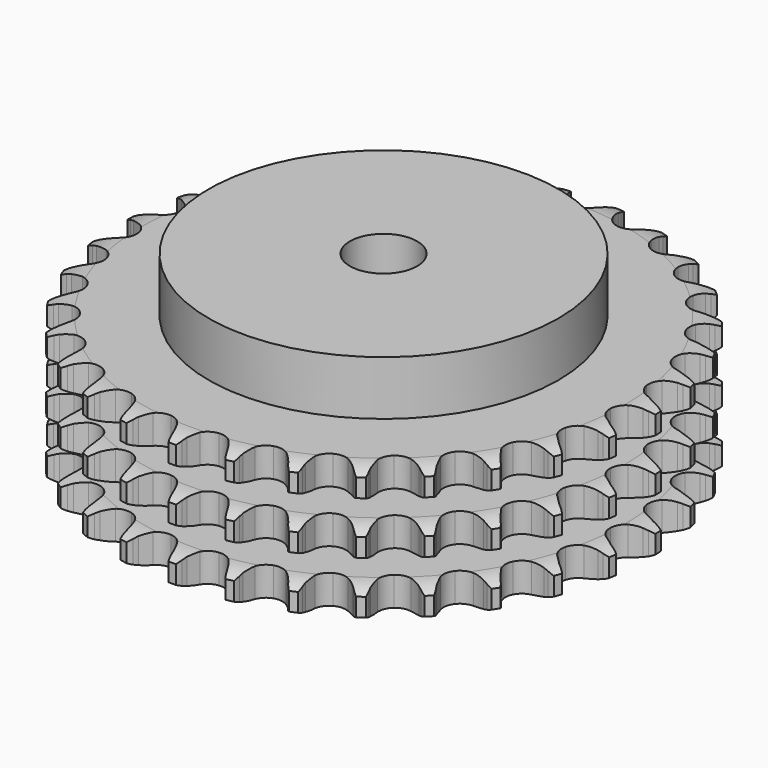
from build123d import *

# Parameters (mm, degrees)
PAD_DEPTH         = 49.8
SKETCH001_R       = 65
PAD001_DEPTH      = 70
SKETCH002_R       = 12.5
POCKET_DEPTH      = 0.001
POCKET_DEPTH_BACK = 70.001


with BuildPart() as part:
    # Sprocket → Pad (new body)
    with BuildSketch(Plane.XY):
        with BuildLine():
            ThreePointArc((-10.135506, 99.67057), (-8.654127, 97.94511), (-7.608377, 95.925678))
            Line((-7.608377, 95.925678), (-7.019676, 94.371168))
            ThreePointArc((-7.019676, 94.371168), (-6.086662, 92.351046), (-4.878425, 90.482473))
            ThreePointArc((-4.878425, 90.482473), (-2.726343, 88.689528), (0, 88.04675))
            ThreePointArc((0, 88.04675), (2.726343, 88.689528), (4.878425, 90.482473))
            ThreePointArc((4.878425, 90.482473), (6.086662, 92.351046), (7.019676, 94.371168))
            Line((7.019676, 94.371168), (7.608377, 95.925678))
            ThreePointArc((7.608377, 95.925678), (8.654127, 97.94511), (10.135506, 99.67057))
            ThreePointArc((10.135506, 99.67057), (11.239229, 97.68223), (11.857064, 95.493628))
            Line((11.857064, 95.493628), (12.120794, 93.852435))
            ThreePointArc((12.120794, 93.852435), (12.628061, 91.685851), (13.435425, 89.612311))
            ThreePointArc((13.435425, 89.612311), (15.182536, 87.422857), (17.72368, 86.244427))
            ThreePointArc((17.72368, 86.244427), (20.523605, 86.32524), (22.992551, 87.648272))
            Line((22.992551, 87.648272), (25.872759, 91.026334))
            ThreePointArc((25.872759, 91.026334), (26.299018, 91.740163), (26.76233, 92.430518))
            ThreePointArc((26.76233, 92.430518), (28.193182, 94.198104), (29.99157, 95.590046))
            ThreePointArc((29.99157, 95.590046), (30.67245, 93.420229), (30.837076, 91.152059))
            Line((30.837076, 91.152059), (30.765037, 89.491372))
            ThreePointArc((30.765037, 89.491372), (30.82579, 87.267026), (31.199226, 85.073411))
            ThreePointArc((31.199226, 85.073411), (32.469841, 82.577084), (34.721751, 80.911248))
            ThreePointArc((34.721751, 80.911248), (37.480629, 80.426785), (40.16536, 81.22574))
            Line((40.16536, 81.22574), (43.666608, 83.954872))
            ThreePointArc((43.666608, 83.954872), (44.227834, 84.568283), (44.82063, 85.151243))
            ThreePointArc((44.82063, 85.151243), (46.578005, 86.594618), (48.619776, 87.596053))
            ThreePointArc((48.619776, 87.596053), (48.849937, 85.333593), (48.554613, 83.078713))
            Line((48.554613, 83.078713), (48.149755, 81.466522))
            ThreePointArc((48.149755, 81.466522), (47.761507, 79.275479), (47.685728, 77.051595))
            ThreePointArc((47.685728, 77.051595), (48.427826, 74.350595), (50.298309, 72.265553))
            ThreePointArc((50.298309, 72.265553), (52.903191, 71.235649), (55.693794, 71.477817))
            Line((55.693794, 71.477817), (59.672742, 73.446287))
            ThreePointArc((59.672742, 73.446287), (60.345958, 73.934168), (61.043968, 74.385866))
            ThreePointArc((61.043968, 74.385866), (63.055919, 75.445937), (65.257482, 76.015868))
            ThreePointArc((65.257482, 76.015868), (65.027502, 73.753389), (64.284319, 71.604115))
            Line((64.284319, 71.604115), (63.563217, 70.106423))
            ThreePointArc((63.563217, 70.106423), (62.741863, 68.038385), (62.21997, 65.875278))
            ThreePointArc((62.21997, 65.875278), (62.40317, 63.080184), (63.815649, 60.661298))
            ThreePointArc((63.815649, 60.661298), (66.15989, 59.128117), (68.942117, 58.803583))
            Line((68.942117, 58.803583), (73.235866, 59.930802))
            ThreePointArc((73.235866, 59.930802), (73.993511, 60.273179), (74.768159, 60.575122))
            ThreePointArc((74.768159, 60.575122), (76.952316, 61.208491), (79.223539, 61.323584))
            ThreePointArc((79.223539, 61.323584), (78.542833, 59.153713), (77.382218, 57.198036))
            Line((77.382218, 57.198036), (76.374394, 55.876159))
            ThreePointArc((76.374394, 55.876159), (75.15356, 54.015791), (74.20692, 52.002019))
            ThreePointArc((74.20692, 52.002019), (73.823722, 49.227264), (74.720368, 46.573562))
            ThreePointArc((74.720368, 46.573562), (76.707996, 44.599873), (79.367942, 43.721924))
            Line((79.367942, 43.721924), (83.800705, 43.961744))
            ThreePointArc((83.800705, 43.961744), (84.611762, 44.144599), (85.431333, 44.284426))
            ThreePointArc((85.431333, 44.284426), (87.698277, 44.465163), (89.946175, 44.120705))
            ThreePointArc((89.946175, 44.120705), (88.842611, 42.132277), (87.31208, 40.450263))
            Line((87.31208, 40.450263), (86.058794, 39.358318))
            ThreePointArc((86.058794, 39.358318), (84.488461, 37.781784), (83.155829, 35.999792))
            ThreePointArc((83.155829, 35.999792), (82.221921, 33.358973), (82.566027, 30.579099))
            ThreePointArc((82.566027, 30.579099), (84.115667, 28.245705), (86.544434, 26.850285))
            Line((86.544434, 26.850285), (90.934734, 26.192886))
            ThreePointArc((90.934734, 26.192886), (91.765996, 26.208734), (92.596938, 26.18072))
            ThreePointArc((92.596938, 26.18072), (94.853859, 25.901425), (96.986405, 25.11152))
            ThreePointArc((96.986405, 25.11152), (95.505163, 23.385941), (93.667374, 22.046451))
            Line((93.667374, 22.046451), (92.219936, 21.229143))
            ThreePointArc((92.219936, 21.229143), (90.364394, 20.000987), (88.700329, 18.523728))
            ThreePointArc((88.700329, 18.523728), (87.253945, 16.124962), (87.031423, 13.332724))
            ThreePointArc((87.031423, 13.332724), (88.079633, 10.735155), (90.177787, 8.879391))
            Line((90.177787, 8.879391), (94.345884, 7.351689))
            ThreePointArc((94.345884, 7.351689), (95.163321, 7.199881), (95.971613, 7.005173))
            ThreePointArc((95.971613, 7.005173), (98.126114, 6.27728), (100.055999, 5.074266))
            ThreePointArc((100.055999, 5.074266), (98.257722, 3.682181), (96.187916, 2.740055))
            Line((96.187916, 2.740055), (94.605584, 2.230845))
            ThreePointArc((94.605584, 2.230845), (92.540799, 1.401347), (90.613427, 0.289301))
            ThreePointArc((90.613427, 0.289301), (88.713783, -1.769207), (87.933742, -4.459495))
            ThreePointArc((87.933742, -4.459495), (88.437609, -7.214894), (90.119251, -9.455026))
            Line((90.119251, -9.455026), (93.894502, -11.790487))
            ThreePointArc((93.894502, -11.790487), (94.664647, -12.103737), (95.4172, -12.457167))
            ThreePointArc((95.4172, -12.457167), (97.381073, -13.603858), (99.029289, -15.170729))
            ThreePointArc((99.029289, -15.170729), (96.987598, -16.172327), (94.770512, -16.678519))
            Line((94.770512, -16.678519), (93.118068, -16.858785))
            ThreePointArc((93.118068, -16.858785), (90.928572, -17.255665), (88.816801, -17.956969))
            ThreePointArc((88.816801, -17.956969), (86.541668, -19.590945), (85.236044, -22.069141))
            ThreePointArc((85.236044, -22.069141), (85.174938, -24.869565), (86.371222, -27.402353))
            Line((86.371222, -27.402353), (89.599069, -30.44996))
            ThreePointArc((89.599069, -30.44996), (90.290392, -30.911826), (90.956395, -31.409509))
            ThreePointArc((90.956395, -31.409509), (92.649241, -32.928052), (93.948308, -34.794633))
            ThreePointArc((93.948308, -34.794633), (91.746791, -35.364739), (89.473193, -35.414272))
            Line((89.473193, -35.414272), (87.818287, -35.258214))
            ThreePointArc((87.818287, -35.258214), (85.593719, -35.206227), (83.384005, -35.46808))
            ThreePointArc((83.384005, -35.46808), (80.826526, -36.610627), (79.048771, -38.775274))
            ThreePointArc((79.048771, -38.775274), (78.425196, -41.506072), (79.087145, -44.227824))
            Line((79.087145, -44.227824), (81.635439, -47.862807))
            ThreePointArc((81.635439, -47.862807), (82.219637, -48.454381), (82.771824, -49.075942))
            ThreePointArc((82.771824, -49.075942), (84.124337, -50.904168), (85.021073, -52.99404))
            ThreePointArc((85.021073, -52.99404), (82.749859, -53.109314), (80.512831, -52.700162))
            Line((80.512831, -52.700162), (78.923215, -52.214167))
            ThreePointArc((78.923215, -52.214167), (76.754649, -51.715443), (74.537457, -51.527123))
            ThreePointArc((74.537457, -51.527123), (71.802338, -52.131465), (69.625233, -53.893942))
            ThreePointArc((69.625233, -53.893942), (68.464716, -56.443316), (68.565231, -59.242603))
            Line((68.565231, -59.242603), (70.329644, -63.316146))
            ThreePointArc((70.329644, -63.316146), (70.782801, -64.013209), (71.198566, -64.733201))
            ThreePointArc((71.198566, -64.733201), (72.155373, -66.796261), (72.613065, -69.023865))
            ThreePointArc((72.613065, -69.023865), (70.365138, -68.679587), (68.256264, -67.8285))
            Line((68.256264, -67.8285), (66.797018, -67.032467))
            ThreePointArc((66.797018, -67.032467), (64.773235, -66.107422), (62.639338, -65.476639))
            ThreePointArc((62.639338, -65.476639), (59.838553, -65.518035), (57.35123, -66.806186))
            ThreePointArc((57.35123, -66.806186), (55.701283, -69.069764), (55.236248, -71.831983))
            Line((55.236248, -71.831983), (56.144546, -76.177314))
            ThreePointArc((56.144546, -76.177314), (56.448109, -76.951328), (56.710429, -77.740274))
            ThreePointArc((56.710429, -77.740274), (57.23236, -79.953708), (57.232269, -82.227845))
            ThreePointArc((57.232269, -82.227845), (55.099661, -81.43811), (53.205278, -80.179932))
            Line((53.205278, -80.179932), (51.936143, -79.106449))
            ThreePointArc((51.936143, -79.106449), (50.139997, -77.792956), (48.176756, -76.745535))
            ThreePointArc((48.176756, -76.745535), (45.424971, -76.222289), (42.72926, -76.983378))
            ThreePointArc((42.72926, -76.983378), (40.657434, -78.868488), (39.645887, -81.480553))
            Line((39.645887, -81.480553), (39.660883, -85.919774))
            ThreePointArc((39.660883, -85.919774), (39.802425, -86.73905), (39.900561, -87.564652))
            ThreePointArc((39.900561, -87.564652), (39.966247, -89.83784), (39.508378, -92.065407))
            ThreePointArc((39.508378, -92.065407), (37.578396, -90.862547), (35.976061, -89.248787))
            Line((35.976061, -89.248787), (34.948996, -87.941804))
            ThreePointArc((34.948996, -87.941804), (33.454021, -86.293636), (31.741812, -84.872459))
            ThreePointArc((31.741812, -84.872459), (29.151685, -83.805994), (26.35795, -84.00886))
            ThreePointArc((26.35795, -84.00886), (23.949064, -85.438327), (22.432419, -87.7933))
            Line((22.432419, -87.7933), (21.553499, -92.144668))
            ThreePointArc((21.553499, -92.144668), (21.527224, -92.975666), (21.45716, -93.804122))
            ThreePointArc((21.45716, -93.804122), (21.063911, -96.044001), (20.167009, -98.133801))
            ThreePointArc((20.167009, -98.133801), (18.518668, -96.567061), (17.27398, -94.663787))
            Line((17.27398, -94.663787), (16.531033, -93.176811))
            ThreePointArc((16.531033, -93.176811), (15.398434, -91.261445), (14.007355, -89.524694))
            ThreePointArc((14.007355, -89.524694), (11.684925, -87.958671), (8.907542, -87.59501))
            ThreePointArc((8.907542, -87.59501), (6.260216, -88.51031), (4.300565, -90.511779))
            Line((4.300565, -90.511779), (2.563713, -94.597149))
            ThreePointArc((2.563713, -94.597149), (2.370697, -95.405847), (2.135299, -96.203241))
            ThreePointArc((2.135299, -96.203241), (1.299217, -98.318108), (0, -100.184585))
            ThreePointArc((0, -100.184585), (-1.299217, -98.318108), (-2.135299, -96.203241))
            Line((-2.135299, -96.203241), (-2.563713, -94.597149))
            ThreePointArc((-2.563713, -94.597149), (-3.287567, -92.493), (-4.300565, -90.511779))
            ThreePointArc((-4.300565, -90.511779), (-6.260216, -88.51031), (-8.907542, -87.59501))
            ThreePointArc((-8.907542, -87.59501), (-11.684925, -87.958671), (-14.007355, -89.524694))
            Line((-14.007355, -89.524694), (-16.531033, -93.176811))
            ThreePointArc((-16.531033, -93.176811), (-16.882887, -93.930101), (-17.27398, -94.663787))
            ThreePointArc((-17.27398, -94.663787), (-18.518668, -96.567061), (-20.167009, -98.133801))
            ThreePointArc((-20.167009, -98.133801), (-21.063911, -96.044001), (-21.45716, -93.804122))
            Line((-21.45716, -93.804122), (-21.553499, -92.144668))
            ThreePointArc((-21.553499, -92.144668), (-21.838974, -89.937881), (-22.432419, -87.7933))
            ThreePointArc((-22.432419, -87.7933), (-23.949064, -85.438327), (-26.35795, -84.00886))
            ThreePointArc((-26.35795, -84.00886), (-29.151685, -83.805994), (-31.741812, -84.872459))
            Line((-31.741812, -84.872459), (-34.948996, -87.941804))
            ThreePointArc((-34.948996, -87.941804), (-35.445284, -88.608847), (-35.976061, -89.248787))
            ThreePointArc((-35.976061, -89.248787), (-37.578396, -90.862547), (-39.508378, -92.065407))
            ThreePointArc((-39.508378, -92.065407), (-39.966247, -89.83784), (-39.900561, -87.564652))
            Line((-39.900561, -87.564652), (-39.660883, -85.919774))
            ThreePointArc((-39.660883, -85.919774), (-39.496291, -83.700694), (-39.645887, -81.480553))
            ThreePointArc((-39.645887, -81.480553), (-40.657434, -78.868488), (-42.72926, -76.983378))
            ThreePointArc((-42.72926, -76.983378), (-45.424971, -76.222289), (-48.176756, -76.745535))
            Line((-48.176756, -76.745535), (-51.936143, -79.106449))
            ThreePointArc((-51.936143, -79.106449), (-52.556547, -79.659935), (-53.205278, -80.179932))
            ThreePointArc((-53.205278, -80.179932), (-55.099661, -81.43811), (-57.232269, -82.227845))
            ThreePointArc((-57.232269, -82.227845), (-57.23236, -79.953708), (-56.710429, -77.740274))
            Line((-56.710429, -77.740274), (-56.144546, -76.177314))
            ThreePointArc((-56.144546, -76.177314), (-55.536626, -74.036791), (-55.236248, -71.831983))
            ThreePointArc((-55.236248, -71.831983), (-55.701283, -69.069764), (-57.35123, -66.806186))
            ThreePointArc((-57.35123, -66.806186), (-59.838553, -65.518035), (-62.639338, -65.476639))
            Line((-62.639338, -65.476639), (-66.797018, -67.032467))
            ThreePointArc((-66.797018, -67.032467), (-67.516138, -67.449736), (-68.256264, -67.8285))
            ThreePointArc((-68.256264, -67.8285), (-70.365138, -68.679587), (-72.613065, -69.023865))
            ThreePointArc((-72.613065, -69.023865), (-72.155373, -66.796261), (-71.198566, -64.733201))
            Line((-71.198566, -64.733201), (-70.329644, -63.316146))
            ThreePointArc((-70.329644, -63.316146), (-69.303284, -61.341813), (-68.565231, -59.242603))
            ThreePointArc((-68.565231, -59.242603), (-68.464716, -56.443316), (-69.625233, -53.893942))
            ThreePointArc((-69.625233, -53.893942), (-71.802338, -52.131465), (-74.537457, -51.527123))
            Line((-74.537457, -51.527123), (-78.923215, -52.214167))
            ThreePointArc((-78.923215, -52.214167), (-79.711611, -52.478138), (-80.512831, -52.700162))
            ThreePointArc((-80.512831, -52.700162), (-82.749859, -53.109314), (-85.021073, -52.99404))
            ThreePointArc((-85.021073, -52.99404), (-84.124337, -50.904168), (-82.771824, -49.075942))
            Line((-82.771824, -49.075942), (-81.635439, -47.862807))
            ThreePointArc((-81.635439, -47.862807), (-80.232658, -46.135494), (-79.087145, -44.227824))
            ThreePointArc((-79.087145, -44.227824), (-78.425196, -41.506072), (-79.048771, -38.775274))
            ThreePointArc((-79.048771, -38.775274), (-80.826526, -36.610627), (-83.384005, -35.46808))
            Line((-83.384005, -35.46808), (-87.818287, -35.258214))
            ThreePointArc((-87.818287, -35.258214), (-88.643681, -35.358078), (-89.473193, -35.414272))
            ThreePointArc((-89.473193, -35.414272), (-91.746791, -35.364739), (-93.948308, -34.794633))
            ThreePointArc((-93.948308, -34.794633), (-92.649241, -32.928052), (-90.956395, -31.409509))
            Line((-90.956395, -31.409509), (-89.599069, -30.44996))
            ThreePointArc((-89.599069, -30.44996), (-87.877297, -29.040382), (-86.371222, -27.402353))
            ThreePointArc((-86.371222, -27.402353), (-85.174938, -24.869565), (-85.236044, -22.069141))
            ThreePointArc((-85.236044, -22.069141), (-86.541668, -19.590945), (-88.816801, -17.956969))
            Line((-88.816801, -17.956969), (-93.118068, -16.858785))
            ThreePointArc((-93.118068, -16.858785), (-93.946668, -16.790454), (-94.770512, -16.678519))
            ThreePointArc((-94.770512, -16.678519), (-96.987598, -16.172327), (-99.029289, -15.170729))
            ThreePointArc((-99.029289, -15.170729), (-97.381073, -13.603858), (-95.4172, -12.457167))
            Line((-95.4172, -12.457167), (-93.894502, -11.790487))
            ThreePointArc((-93.894502, -11.790487), (-91.92423, -10.756354), (-90.119251, -9.455026))
            ThreePointArc((-90.119251, -9.455026), (-88.437609, -7.214894), (-87.933742, -4.459495))
            ThreePointArc((-87.933742, -4.459495), (-88.713783, -1.769207), (-90.613427, 0.289301))
            Line((-90.613427, 0.289301), (-94.605584, 2.230845))
            ThreePointArc((-94.605584, 2.230845), (-95.403468, 2.464573), (-96.187916, 2.740055))
            ThreePointArc((-96.187916, 2.740055), (-98.257722, 3.682181), (-100.055999, 5.074266))
            ThreePointArc((-100.055999, 5.074266), (-98.126114, 6.27728), (-95.971613, 7.005173))
            Line((-95.971613, 7.005173), (-94.345884, 7.351689))
            ThreePointArc((-94.345884, 7.351689), (-92.207774, 7.968041), (-90.177787, 8.879391))
            ThreePointArc((-90.177787, 8.879391), (-88.079633, 10.735155), (-87.031423, 13.332724))
            ThreePointArc((-87.031423, 13.332724), (-87.253945, 16.124962), (-88.700329, 18.523728))
            Line((-88.700329, 18.523728), (-92.219936, 21.229143))
            ThreePointArc((-92.219936, 21.229143), (-92.954439, 21.6187), (-93.667374, 22.046451))
            ThreePointArc((-93.667374, 22.046451), (-95.505163, 23.385941), (-96.986405, 25.11152))
            ThreePointArc((-96.986405, 25.11152), (-94.853859, 25.901425), (-92.596938, 26.18072))
            Line((-92.596938, 26.18072), (-90.934734, 26.192886))
            ThreePointArc((-90.934734, 26.192886), (-88.71632, 26.366223), (-86.544434, 26.850285))
            ThreePointArc((-86.544434, 26.850285), (-84.115667, 28.245705), (-82.566027, 30.579099))
            ThreePointArc((-82.566027, 30.579099), (-82.221921, 33.358973), (-83.155829, 35.999792))
            Line((-83.155829, 35.999792), (-86.058794, 39.358318))
            ThreePointArc((-86.058794, 39.358318), (-86.699844, 39.887755), (-87.31208, 40.450263))
            ThreePointArc((-87.31208, 40.450263), (-88.842611, 42.132277), (-89.946175, 44.120705))
            ThreePointArc((-89.946175, 44.120705), (-87.698277, 44.465163), (-85.431333, 44.284426))
            Line((-85.431333, 44.284426), (-83.800705, 43.961744))
            ThreePointArc((-83.800705, 43.961744), (-81.59281, 43.684969), (-79.367942, 43.721924))
            ThreePointArc((-79.367942, 43.721924), (-76.707996, 44.599873), (-74.720368, 46.573562))
            ThreePointArc((-74.720368, 46.573562), (-73.823722, 49.227264), (-74.20692, 52.002019))
            Line((-74.20692, 52.002019), (-76.374394, 55.876159))
            ThreePointArc((-76.374394, 55.876159), (-76.895747, 56.5238), (-77.382218, 57.198036))
            ThreePointArc((-77.382218, 57.198036), (-78.542833, 59.153713), (-79.223539, 61.323584))
            ThreePointArc((-79.223539, 61.323584), (-76.952316, 61.208491), (-74.768159, 60.575122))
            Line((-74.768159, 60.575122), (-73.235866, 59.930802))
            ThreePointArc((-73.235866, 59.930802), (-71.128881, 59.215247), (-68.942117, 58.803583))
            ThreePointArc((-68.942117, 58.803583), (-66.15989, 59.128117), (-63.815649, 60.661298))
            ThreePointArc((-63.815649, 60.661298), (-62.40317, 63.080184), (-62.21997, 65.875278))
            Line((-62.21997, 65.875278), (-63.563217, 70.106423))
            ThreePointArc((-63.563217, 70.106423), (-63.943529, 70.845755), (-64.284319, 71.604115))
            ThreePointArc((-64.284319, 71.604115), (-65.027502, 73.753389), (-65.257482, 76.015868))
            ThreePointArc((-65.257482, 76.015868), (-63.055919, 75.445937), (-61.043968, 74.385866))
            Line((-61.043968, 74.385866), (-59.672742, 73.446287))
            ThreePointArc((-59.672742, 73.446287), (-57.752927, 72.321246), (-55.693794, 71.477817))
            ThreePointArc((-55.693794, 71.477817), (-52.903191, 71.235649), (-50.298309, 72.265553))
            ThreePointArc((-50.298309, 72.265553), (-48.427826, 74.350595), (-47.685728, 77.051595))
            Line((-47.685728, 77.051595), (-48.149755, 81.466522))
            ThreePointArc((-48.149755, 81.466522), (-48.373455, 82.267276), (-48.554613, 83.078713))
            ThreePointArc((-48.554613, 83.078713), (-48.849937, 85.333593), (-48.619776, 87.596053))
            ThreePointArc((-48.619776, 87.596053), (-46.578005, 86.594618), (-44.82063, 85.151243))
            Line((-44.82063, 85.151243), (-43.666608, 83.954872))
            ThreePointArc((-43.666608, 83.954872), (-42.012562, 82.466404), (-40.16536, 81.22574))
            ThreePointArc((-40.16536, 81.22574), (-37.480629, 80.426785), (-34.721751, 80.911248))
            ThreePointArc((-34.721751, 80.911248), (-32.469841, 82.577084), (-31.199226, 85.073411))
            Line((-31.199226, 85.073411), (-30.765037, 89.491372))
            ThreePointArc((-30.765037, 89.491372), (-30.822967, 90.320765), (-30.837076, 91.152059))
            ThreePointArc((-30.837076, 91.152059), (-30.67245, 93.420229), (-29.99157, 95.590046))
            ThreePointArc((-29.99157, 95.590046), (-28.193182, 94.198104), (-26.76233, 92.430518))
            Line((-26.76233, 92.430518), (-25.872759, 91.026334))
            ThreePointArc((-25.872759, 91.026334), (-24.552197, 89.235379), (-22.992551, 87.648272))
            ThreePointArc((-22.992551, 87.648272), (-20.523605, 86.32524), (-17.72368, 86.244427))
            ThreePointArc((-17.72368, 86.244427), (-15.182536, 87.422857), (-13.435425, 89.612311))
            Line((-13.435425, 89.612311), (-12.120794, 93.852435))
            ThreePointArc((-12.120794, 93.852435), (-12.010583, 94.676511), (-11.857064, 95.493628))
            ThreePointArc((-11.857064, 95.493628), (-11.239229, 97.68223), (-10.135506, 99.67057))
        make_face()
    extrude(amount=PAD_DEPTH)

    # Sketch → Groove (revolve, cut)
    with BuildSketch(Plane.XZ):
        with BuildLine():
            ThreePointArc((89.664719, 0), (94.023618, 0.506758), (98.15, 2))
            Line((98.15, 2), (98.15, 8.8))
            ThreePointArc((98.15, 8.8), (94.023618, 10.293242), (89.664719, 10.8))
            Line((65, 10.8), (89.664719, 10.8))
            Line((65, 10.8), (65, 19.5))
            Line((65, 19.5), (89.664719, 19.5))
            ThreePointArc((89.664719, 19.5), (94.023618, 20.006758), (98.15, 21.5))
            Line((98.15, 28.3), (98.15, 21.5))
            ThreePointArc((98.15, 28.3), (94.023618, 29.793242), (89.664719, 30.3))
            Line((65, 30.3), (89.664719, 30.3))
            Line((65, 39), (65, 30.3))
            Line((89.664719, 39), (65, 39))
            ThreePointArc((89.664719, 39), (94.023618, 39.506758), (98.15, 41))
            Line((98.15, 41), (98.15, 47.8))
            ThreePointArc((98.15, 47.8), (94.023618, 49.293242), (89.664719, 49.8))
            Line((89.664719, 49.8), (108.15, 49.8))
            Line((108.15, 49.8), (108.15, 0))
            Line((89.664719, 0), (108.15, 0))
        make_face()
    revolve(axis=Axis((0, 0, 0), (0, 0, 1)), mode=Mode.SUBTRACT)

    # Sketch001 → Pad001 (join)
    with BuildSketch(Plane.XY):
        Circle(SKETCH001_R)
    extrude(amount=PAD001_DEPTH)

    # Sketch002 → Pocket (cut, two sides)
    with BuildSketch(Plane.XY) as pocket_sk:
        Circle(SKETCH002_R)
    extrude(amount=-POCKET_DEPTH, mode=Mode.SUBTRACT)
    extrude(pocket_sk.sketch, amount=POCKET_DEPTH_BACK, mode=Mode.SUBTRACT)


solid = part.part
